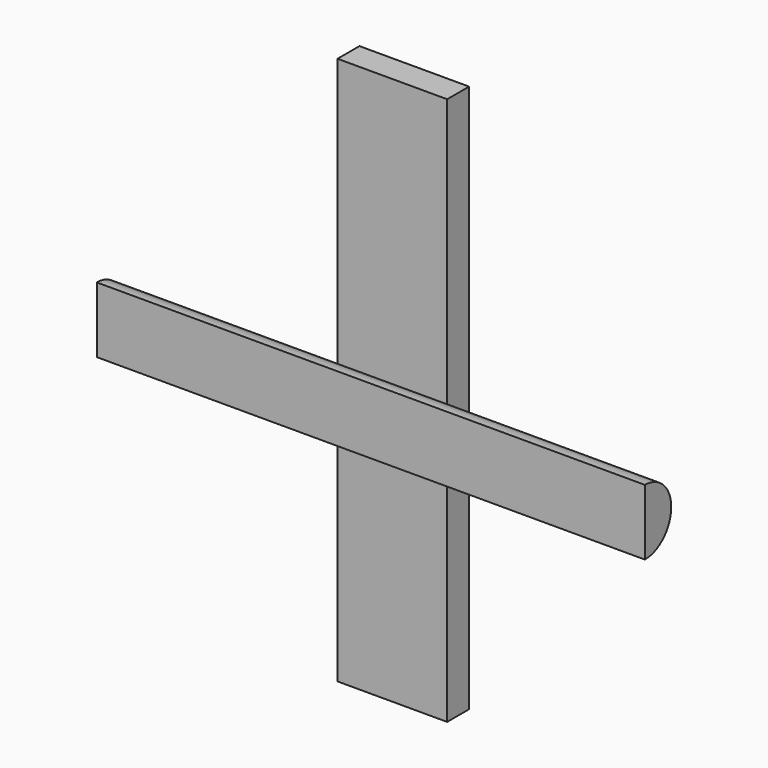
from build123d import *

# Parameters (mm, degrees)
BOTTOMBOX_W          = 600
BOTTOMBOX_H          = 100
BOTTOMBOX_DEPTH      = 100
BOTTOMCYLINDER_R     = 30
BOTTOMCYLINDER_DEPTH = 500
TOPBOX_W             = 100
TOPBOX_H             = 25
TOPBOX_DEPTH         = 500


with BuildPart() as bottombox:
    # BottomBox → BottomBox (new body)
    with BuildSketch(Plane(origin=(-10, -142, -52), x_dir=(1, 0, 0), z_dir=(0, 0, 1))):
        with Locations((300, 50)):
            Rectangle(BOTTOMBOX_W, BOTTOMBOX_H)
    extrude(amount=BOTTOMBOX_DEPTH)


with BuildPart() as obj1:
    # BottomCylinder → BottomCylinder (new body)
    with BuildSketch(Plane(origin=(0, -42, 0), x_dir=(0, 0, -1), z_dir=(1, 0, 0))):
        Circle(BOTTOMCYLINDER_R)
    extrude(amount=BOTTOMCYLINDER_DEPTH)

    # obj1: cut BottomBox
    add(bottombox.part, mode=Mode.SUBTRACT)


with BuildPart() as obj2:
    # TopBox → TopBox (new body)
    with BuildSketch(Plane(origin=(186, 0, -247), x_dir=(1, 0, 0), z_dir=(0, 0, 1))):
        with Locations((50, 12.5)):
            Rectangle(TOPBOX_W, TOPBOX_H)
    extrude(amount=TOPBOX_DEPTH)

    # obj2: union obj1
    add(obj1.part)


solid = obj2.part
